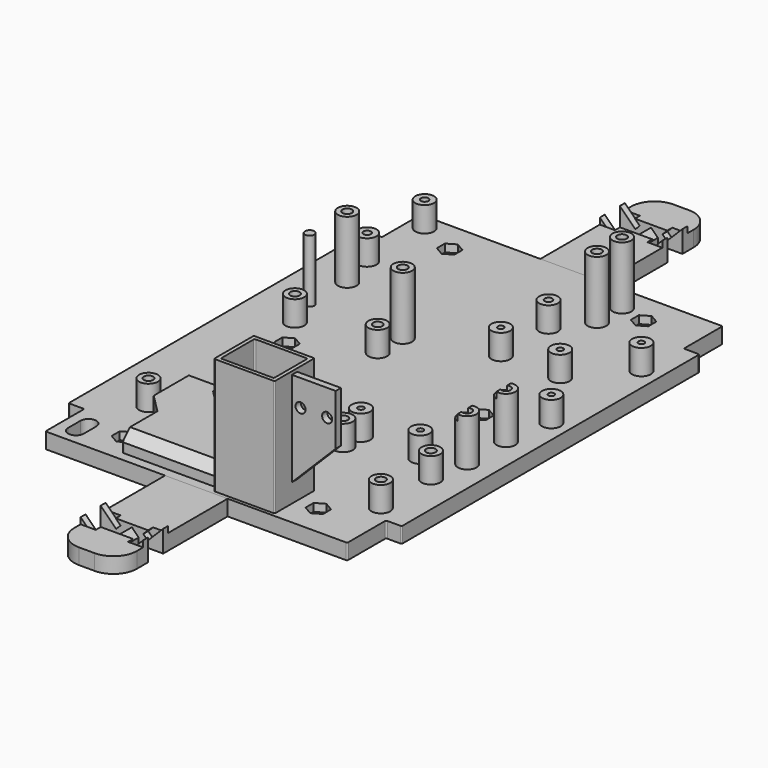
from build123d import *

# Parameters (mm, degrees)
PAD_DEPTH               = 5
SKETCH002_R             = 1.5
POCKET_DEPTH            = 2.5
SKETCH003_R             = 1.5
POCKET001_DEPTH         = 5
SKETCH004_W             = 20.5
SKETCH004_H             = 13.5
POCKET002_DEPTH         = 5
PAD001_DEPTH            = 13.5
SKETCH007_W             = 19.4
SKETCH007_H             = 15.9
SKETCH007_W_2           = 17
SKETCH007_H_2           = 13.5
PAD002_DEPTH            = 37.25
SKETCH008_W             = 2.1
SKETCH008_H             = 36.25
PAD003_DEPTH            = 14
POCKET003_DEPTH         = 2.1
SKETCH010_R             = 1.6
POCKET004_DEPTH         = 2.1
PAD193_DEPTH            = 6
POCKET198_DEPTH         = 10
CHAMFER_SIZE            = 3
POCKET218_DEPTH         = 5
FILLET_R                = 0.4
SKETCH450_R             = 3
SKETCH450_R_2           = 1.5
PAD231_DEPTH            = 8
SKETCH451_R             = 3
SKETCH451_R_2           = 1.5
PAD232_DEPTH            = 20
SKETCH452_R             = 3
SKETCH452_R_2           = 1.5
PAD233_DEPTH            = 8
SKETCH453_R             = 3
SKETCH453_R_2           = 1.5
PAD234_DEPTH            = 15
SKETCH454_W             = 2.25
SKETCH454_H             = 21.5
POCKET219_DEPTH         = 2
SKETCH455_R             = 3
SKETCH455_R_2           = 0.95
PAD235_DEPTH            = 8
SKETCH456_R             = 3
SKETCH456_R_2           = 0.95
PAD236_DEPTH            = 8
SKETCH457_R             = 3
SKETCH457_R_2           = 1.2
PAD237_DEPTH            = 8
SKETCH458_R             = 3
SKETCH458_R_2           = 1.5
PAD238_DEPTH            = 20
PAD238_FACE193_R        = 1.5
POCKET220_DEPTH         = 20
PAD197_DEPTH            = 5
POCKET202_DEPTH         = 3
POCKET202_DEPTH_BACK    = 3
SKETCH443_W             = 10
SKETCH443_H             = 2
POCKET203_DEPTH         = 5
POCKET203_DEPTH_BACK    = 2
SKETCH444_W             = 10
SKETCH444_H             = 2
POCKET204_DEPTH         = 5
POCKET204_DEPTH_BACK    = 2
POCKET204_FACE20_W      = 6
POCKET204_FACE20_H      = 5
POCKET205_DEPTH         = 5
POCKET205_FACE26_W      = 6
POCKET205_FACE26_H      = 5
POCKET206_DEPTH         = 5
PAD228_DEPTH            = 2
POCKET207_DEPTH         = 2
POCKET207_FACE66_W      = 6
POCKET207_FACE66_H      = 2.071068
POCKET208_DEPTH         = 5
POCKET208_FACE38_W      = 6
POCKET208_FACE38_H      = 2.071068
POCKET209_DEPTH         = 5
PAD229_DEPTH            = 5
POCKET214_DEPTH         = 3
POCKET214_DEPTH_BACK    = 3
SKETCH446_W             = 10
SKETCH446_H             = 2
POCKET215_DEPTH         = 5
POCKET215_DEPTH_BACK    = 2
SKETCH448_W             = 10
SKETCH448_H             = 2
POCKET216_DEPTH         = 5
POCKET216_DEPTH_BACK    = 2
POCKET216_FACE20_W      = 6
POCKET216_FACE20_H      = 5
POCKET217_DEPTH         = 5
POCKET217_FACE26_W      = 6
POCKET217_FACE26_H      = 5
POCKET210_DEPTH         = 5
PAD230_DEPTH            = 2
POCKET213_DEPTH         = 2
POCKET213_FACE66_W      = 6
POCKET213_FACE66_H      = 2.071068
POCKET211_DEPTH         = 5
POCKET211_FACE38_W      = 6
POCKET211_FACE38_H      = 2.071068
POCKET212_DEPTH         = 5
BODY150_PLACEMENT_ANGLE = 180


with BuildPart() as circuitry_mountingplate_base:
    # Sketch → Pad (new body)
    with BuildSketch(Plane.XY):
        Polygon((-53.25, -59.5), (-53.25, 59.5), (-48.25, 59.5), (-48.25, 75), (48.25, 75), (48.25, 59.5), (53.25, 59.5), (53.25, -59.5), (48.25, -59.5), (48.25, -75), (-48.25, -75), (-48.25, -59.5), align=None)
    extrude(amount=PAD_DEPTH)

    # Sketch002 (on Face14 of Pad) → Pocket (cut)
    with BuildSketch(Plane.XY.offset(5)):
        Polygon((-31, -61.766838), (-33.8, -63.383419), (-33.8, -66.616581), (-31, -68.233162), (-28.2, -66.616581), (-28.2, -63.383419), align=None)
        with Locations((-31, -65)):
            Circle(SKETCH002_R, mode=Mode.SUBTRACT)
        Polygon((31, -61.766838), (28.2, -63.383419), (28.2, -66.616581), (31, -68.233162), (33.8, -66.616581), (33.8, -63.383419), align=None)
        with Locations((31, -65)):
            Circle(SKETCH002_R, mode=Mode.SUBTRACT)
        Polygon((31, 3.233162), (28.2, 1.616581), (28.2, -1.616581), (31, -3.233162), (33.8, -1.616581), (33.8, 1.616581), align=None)
        with Locations((31, 0)):
            Circle(SKETCH002_R, mode=Mode.SUBTRACT)
        Polygon((-31, 3.233162), (-33.8, 1.616581), (-33.8, -1.616581), (-31, -3.233162), (-28.2, -1.616581), (-28.2, 1.616581), align=None)
        with Locations((-31, 0)):
            Circle(SKETCH002_R, mode=Mode.SUBTRACT)
        Polygon((-31, 68.233162), (-33.8, 66.616581), (-33.8, 63.383419), (-31, 61.766838), (-28.2, 63.383419), (-28.2, 66.616581), align=None)
        with Locations((-31, 65)):
            Circle(SKETCH002_R, mode=Mode.SUBTRACT)
        Polygon((31, 68.233162), (28.2, 66.616581), (28.2, 63.383419), (31, 61.766838), (33.8, 63.383419), (33.8, 66.616581), align=None)
        with Locations((31, 65)):
            Circle(SKETCH002_R, mode=Mode.SUBTRACT)
    extrude(amount=-POCKET_DEPTH, mode=Mode.SUBTRACT)

    # Sketch003 (on Face63 of Pocket) → Pocket001 (cut)
    with BuildSketch(Plane.XY.offset(5)):
        with Locations((-31, 65)):
            Circle(SKETCH003_R)
        with Locations((31, 65)):
            Circle(SKETCH003_R)
        with Locations((31, 0)):
            Circle(SKETCH003_R)
        with Locations((-31, 0)):
            Circle(SKETCH003_R)
        with Locations((-31, -65)):
            Circle(SKETCH003_R)
        with Locations((31, -65)):
            Circle(SKETCH003_R)
    extrude(amount=-POCKET001_DEPTH, mode=Mode.SUBTRACT)

    # Sketch004 (on Face5 of Pocket001) → Pocket002 (cut)
    with BuildSketch(Plane.XY.offset(5)):
        with Locations((16.25, -66)):
            Rectangle(SKETCH004_W, SKETCH004_H)
    extrude(amount=-POCKET002_DEPTH, mode=Mode.SUBTRACT)

    # Sketch006 (on Face20 of Pocket002) → Pad001 (join)
    with BuildSketch(Plane.XZ.offset(59.25)):
        Polygon((26.5, 0.75), (23, 4.25), (23, 5), (26.5, 5), align=None)
    extrude(amount=PAD001_DEPTH)

    # Sketch007 (on Face5 of Pad001) → Pad002 (join)
    with BuildSketch(Plane.XY.offset(5)):
        with Locations((14.5, -66)):
            Rectangle(SKETCH007_W, SKETCH007_H)
        with Locations((14.5, -66)):
            Rectangle(SKETCH007_W_2, SKETCH007_H_2, mode=Mode.SUBTRACT)
    extrude(amount=PAD002_DEPTH)

    # Sketch008 (on Face38 of Pad002) → Pad003 (join)
    with BuildSketch(Plane.YZ.offset(24.2)):
        with Locations((-66, 23.125)):
            Rectangle(SKETCH008_W, SKETCH008_H)
    extrude(amount=PAD003_DEPTH)

    # Sketch009 (on Face52 of Pad003) → Pocket003 (cut)
    with BuildSketch(Plane.XZ.offset(67.05)):
        Polygon((24.2, 5), (24.2, 11), (38.2, 25), (38.2, 5), align=None)
    extrude(amount=-POCKET003_DEPTH, mode=Mode.SUBTRACT)

    # Sketch010 (on Face83 of Pocket003) → Pocket004 (cut)
    with BuildSketch(Plane.XZ.offset(67.05)):
        with Locations((26.95, 32.85)):
            Circle(SKETCH010_R)
        with Locations((35.45, 32.85)):
            Circle(SKETCH010_R)
    extrude(amount=-POCKET004_DEPTH, mode=Mode.SUBTRACT)

    # Sketch410 (on Face5 of Pocket004) → Pad193 (join)
    with BuildSketch(Plane.XY.offset(5)):
        Polygon((4.8, -72), (-26, -72), (-26, -58.05), (-32, -52.05), (-32, -35), (-22, -35), (-22, -40.85), (-4.8, -58.05), (4.8, -58.05), align=None)
    extrude(amount=PAD193_DEPTH)

    # Sketch414 (on Face4 of Pad193) → Pocket198 (cut)
    with BuildSketch(Plane(origin=(0, 0, 0), x_dir=(1, 0, 0), z_dir=(0, 0, -1))):
        Polygon((6, 70), (-24, 70), (-24, 58.05), (-30.8, 51.25), (-30.8, 36.2), (-23.2, 36.2), (-23.2, 40.85), (-4.8, 59.25), (6, 59.25), align=None)
    extrude(amount=-POCKET198_DEPTH, mode=Mode.SUBTRACT)

    # Chamfer
    chamfer_edges = [circuitry_mountingplate_base.edges().sort_by_distance(p)[0] for p in [
        (-10.6, -72, 11),
        (0, -58.05, 11),
        (-27, -35, 11),
        (-27, -36.2, 10),
        (0.6, -59.25, 10),
        (-9, -70, 10),
    ]]
    chamfer(chamfer_edges, length=CHAMFER_SIZE)

    # Sketch449 → Pocket218 (cut)
    with BuildSketch(Plane.XY.offset(5)):
        with BuildLine():
            ThreePointArc((-45, -70), (-42.5, -72.5), (-40, -70))
            Line((-40, -70), (-40, -65))
            ThreePointArc((-40, -65), (-42.5, -62.5), (-45, -65))
            Line((-45, -70), (-45, -65))
        make_face()
    extrude(amount=-POCKET218_DEPTH, mode=Mode.SUBTRACT)

    # Fillet
    fillet_edges = [circuitry_mountingplate_base.edges().sort_by_distance(p)[0] for p in [
        (48.25, -75, 2.5),
        (48.25, -59.5, 2.5),
        (53.25, -59.5, 2.5),
        (53.25, 59.5, 2.5),
        (48.25, 59.5, 2.5),
        (48.25, 75, 2.5),
        (-48.25, 75, 2.5),
        (-48.25, 59.5, 2.5),
        (-53.25, 59.5, 2.5),
        (-53.25, -59.5, 2.5),
        (-48.25, -59.5, 2.5),
        (-48.25, -75, 2.5),
        (-30.8, -36.2, 3.5),
        (-24, -58.05, 5),
        (-30.8, -51.25, 5),
        (-24, -70, 3.5),
        (6, -70, 2.5),
        (6, -72.75, 2.5),
        (26.5, -72.75, 0.375),
        (26.5, -59.25, 0.375),
        (-4.8, -59.25, 3.5),
        (-23.2, -40.85, 5),
        (-23.2, -36.2, 3.5),
        (23, -59.25, 23.625),
        (23, -72.75, 23.625),
        (6, -72.75, 23.625),
        (6, -59.25, 8.5),
        (24.2, -73.95, 23.625),
        (24.2, -58.05, 23.625),
        (4.8, -58.05, 26.625),
        (4.8, -73.95, 23.625),
        (-26, -72, 6.5),
        (-26, -58.05, 8),
        (-32, -52.05, 8),
        (-32, -35, 6.5),
        (-22, -35, 6.5),
        (-22, -40.85, 8),
        (-4.8, -58.05, 6.5),
    ]]
    fillet(fillet_edges, radius=FILLET_R)

    # Sketch450 (on Face69 of Fillet) → Pad231 (join)
    with BuildSketch(Plane.XY.offset(5)):
        with Locations((-36.5, -48.5)):
            Circle(SKETCH450_R)
        with Locations((-36.5, -48.5)):
            Circle(SKETCH450_R_2, mode=Mode.SUBTRACT)
        with Locations((-10, -48.5)):
            Circle(SKETCH450_R)
        with Locations((-10, -48.5)):
            Circle(SKETCH450_R_2, mode=Mode.SUBTRACT)
        with Locations((-36.5, 10)):
            Circle(SKETCH450_R)
        with Locations((-36.5, 10)):
            Circle(SKETCH450_R_2, mode=Mode.SUBTRACT)
        with Locations((-10, 10)):
            Circle(SKETCH450_R)
        with Locations((-10, 10)):
            Circle(SKETCH450_R_2, mode=Mode.SUBTRACT)
    extrude(amount=PAD231_DEPTH)

    # Sketch451 (on Face69 of Pad231) → Pad232 (join)
    with BuildSketch(Plane.XY.offset(5)):
        with Locations((-39.75, 35)):
            Circle(SKETCH451_R)
        with Locations((-39.75, 35)):
            Circle(SKETCH451_R_2, mode=Mode.SUBTRACT)
        with Locations((-10, 35)):
            Circle(SKETCH451_R_2)
        with Locations((-39.75, 20)):
            Circle(SKETCH451_R_2)
        with Locations((-10, 20)):
            Circle(SKETCH451_R)
        with Locations((-10, 20)):
            Circle(SKETCH451_R_2, mode=Mode.SUBTRACT)
    extrude(amount=PAD232_DEPTH)

    # Sketch452 (on Face69 of Pad232) → Pad233 (join)
    with BuildSketch(Plane.XY.offset(5)):
        with Locations((15, -35)):
            Circle(SKETCH452_R)
        with Locations((15, -35)):
            Circle(SKETCH452_R_2, mode=Mode.SUBTRACT)
        with Locations((43, -35)):
            Circle(SKETCH452_R)
        with Locations((43, -35)):
            Circle(SKETCH452_R_2, mode=Mode.SUBTRACT)
        with Locations((43, -55)):
            Circle(SKETCH452_R)
        with Locations((43, -55)):
            Circle(SKETCH452_R_2, mode=Mode.SUBTRACT)
        with Locations((15, -55)):
            Circle(SKETCH452_R)
        with Locations((15, -55)):
            Circle(SKETCH452_R_2, mode=Mode.SUBTRACT)
    extrude(amount=PAD233_DEPTH)

    # Sketch453 (on Face69 of Pad233) → Pad234 (join)
    with BuildSketch(Plane.XY.offset(5)):
        with Locations((45, -7.5)):
            Circle(SKETCH453_R)
        with Locations((45, -7.5)):
            Circle(SKETCH453_R_2, mode=Mode.SUBTRACT)
        with Locations((45, -23)):
            Circle(SKETCH453_R)
        with Locations((45, -23)):
            Circle(SKETCH453_R_2, mode=Mode.SUBTRACT)
    extrude(amount=PAD234_DEPTH)

    # Sketch454 (on Face173 of Pad234) → Pocket219 (cut)
    with BuildSketch(Plane.XY.offset(20)):
        with Locations((43.125, -15.25)):
            Rectangle(SKETCH454_W, SKETCH454_H)
    extrude(amount=-POCKET219_DEPTH, mode=Mode.SUBTRACT)

    # Sketch455 (on Face69 of Pocket219) → Pad235 (join)
    with BuildSketch(Plane.XY.offset(5)):
        with Locations((15, -27.95)):
            Circle(SKETCH455_R)
        with Locations((15, -27.95)):
            Circle(SKETCH455_R_2, mode=Mode.SUBTRACT)
        with Locations((15, 27.95)):
            Circle(SKETCH455_R)
        with Locations((15, 27.95)):
            Circle(SKETCH455_R_2, mode=Mode.SUBTRACT)
        with Locations((33.98, 27.95)):
            Circle(SKETCH455_R)
        with Locations((33.98, 27.95)):
            Circle(SKETCH455_R_2, mode=Mode.SUBTRACT)
        with Locations((33.98, -27.95)):
            Circle(SKETCH455_R)
        with Locations((33.98, -27.95)):
            Circle(SKETCH455_R_2, mode=Mode.SUBTRACT)
    extrude(amount=PAD235_DEPTH)

    # Sketch456 (on Face69 of Pad235) → Pad236 (join)
    with BuildSketch(Plane.XY.offset(5)):
        with Locations((47.5, 7.5)):
            Circle(SKETCH456_R)
        with Locations((47.5, 7.5)):
            Circle(SKETCH456_R_2, mode=Mode.SUBTRACT)
        with Locations((47.5, 43.5)):
            Circle(SKETCH456_R)
        with Locations((47.5, 43.5)):
            Circle(SKETCH456_R_2, mode=Mode.SUBTRACT)
    extrude(amount=PAD236_DEPTH)

    # Sketch457 (on Face69 of Pad236) → Pad237 (join)
    with BuildSketch(Plane.XY.offset(5)):
        with Locations((-43, 70)):
            Circle(SKETCH457_R)
        with Locations((-43, 70)):
            Circle(SKETCH457_R_2, mode=Mode.SUBTRACT)
        with Locations((15, 70)):
            Circle(SKETCH457_R)
        with Locations((15, 70)):
            Circle(SKETCH457_R_2, mode=Mode.SUBTRACT)
        with Locations((-43, 47)):
            Circle(SKETCH457_R)
        with Locations((-43, 47)):
            Circle(SKETCH457_R_2, mode=Mode.SUBTRACT)
        with Locations((15, 47)):
            Circle(SKETCH457_R)
        with Locations((15, 47)):
            Circle(SKETCH457_R_2, mode=Mode.SUBTRACT)
    extrude(amount=PAD237_DEPTH)

    # Sketch458 (on Face69 of Pad237) → Pad238 (join)
    with BuildSketch(Plane.XY.offset(5)):
        with Locations((22.5, 67)):
            Circle(SKETCH458_R)
        with Locations((22.5, 67)):
            Circle(SKETCH458_R_2, mode=Mode.SUBTRACT)
        with Locations((22.5, 57)):
            Circle(SKETCH458_R)
        with Locations((22.5, 57)):
            Circle(SKETCH458_R_2, mode=Mode.SUBTRACT)
    extrude(amount=PAD238_DEPTH)

    # Pad238 Face193 → Pocket220 (cut)
    with BuildSketch(Plane(origin=(-10, 35, 25), x_dir=(0, 1, 0), z_dir=(0, 0, 1))):
        Circle(PAD238_FACE193_R)
    extrude(amount=-POCKET220_DEPTH, mode=Mode.SUBTRACT)


with BuildPart() as circuitry_mountingplate_front_extension:
    # Sketch417 → Pad197 (new body)
    with BuildSketch(Plane.XY):
        with BuildLine():
            Line((-10, -28.75), (10, -28.75))
            Line((10, -28.75), (10, 7.5))
            ThreePointArc((10, 7.5), (7.803301, 12.803301), (2.5, 15))
            Line((2.5, 15), (-2.5, 15))
            ThreePointArc((-2.5, 15), (-7.803301, 12.803301), (-10, 7.5))
            Line((-10, 7.5), (-10, -28.75))
        make_face()
    extrude(amount=PAD197_DEPTH)

    # Sketch442 → Pocket202 (cut, two sides)
    with BuildSketch(Plane.XZ) as pocket202_sk:
        Polygon((-10, 0), (-10, 5), (-8.585786, 6.414214), (-2.171573, 0), (-5, 0), align=None)
        Polygon((10, 0), (10, 5), (8.585786, 6.414214), (2.171573, 0), (5, 0), align=None)
    extrude(amount=-POCKET202_DEPTH, mode=Mode.SUBTRACT)
    extrude(pocket202_sk.sketch, amount=POCKET202_DEPTH_BACK, mode=Mode.SUBTRACT)

    # Sketch443 (on DatumPlane) → Pocket203 (cut, two sides)
    with BuildSketch(Plane(origin=(-7.171573, 3, 5), x_dir=(0, -1, 0), z_dir=(-0.707107, 0, 0.707107))) as pocket203_sk:
        with Locations((3, -1)):
            Rectangle(SKETCH443_W, SKETCH443_H)
    extrude(amount=-POCKET203_DEPTH, mode=Mode.SUBTRACT)
    extrude(pocket203_sk.sketch, amount=POCKET203_DEPTH_BACK, mode=Mode.SUBTRACT)

    # Sketch444 (on DatumPlane) → Pocket204 (cut, two sides)
    with BuildSketch(Plane(origin=(7.171573, 3, 5), x_dir=(0, 1, 0), z_dir=(0.707107, 0, 0.707107))) as pocket204_sk:
        with Locations((-3, -1)):
            Rectangle(SKETCH444_W, SKETCH444_H)
    extrude(amount=-POCKET204_DEPTH, mode=Mode.SUBTRACT)
    extrude(pocket204_sk.sketch, amount=POCKET204_DEPTH_BACK, mode=Mode.SUBTRACT)

    # Pocket204 Face20 → Pocket205 (cut)
    with BuildSketch(Plane(origin=(-5.403806, 0, 3.232233), x_dir=(0, 1, 0), z_dir=(-0.707107, 0, -0.707107))):
        Rectangle(POCKET204_FACE20_W, POCKET204_FACE20_H)
    extrude(amount=-POCKET205_DEPTH, mode=Mode.SUBTRACT)

    # Pocket205 Face26 → Pocket206 (cut)
    with BuildSketch(Plane(origin=(5.403806, 0, 3.232233), x_dir=(0, -1, 0), z_dir=(0.707107, 0, -0.707107))):
        Rectangle(POCKET205_FACE26_W, POCKET205_FACE26_H)
    extrude(amount=-POCKET206_DEPTH, mode=Mode.SUBTRACT)

    # Pocket206 Face4 → Pad228 (add)
    with BuildSketch(Plane(origin=(0, -8.372552, 0), x_dir=(0, -1, 0), z_dir=(0, 0, -1))):
        with BuildLine():
            Line((20.377448, 10), (-5.372552, 10))
            Line((-5.372552, 10), (-5.372552, 5))
            Line((-5.372552, 5), (-5.372552, 2.171573))
            Line((-5.372552, 2.171573), (-11.372552, 2.171573))
            Line((-11.372552, 2.171573), (-11.372552, 5))
            Line((-11.372552, 5), (-11.372552, 10))
            Line((-11.372552, 10), (-15.872552, 10))
            ThreePointArc((-15.872552, 10), (-21.175853, 7.803301), (-23.372552, 2.5))
            Line((-23.372552, 2.5), (-23.372552, -2.5))
            ThreePointArc((-23.372552, -2.5), (-21.175853, -7.803301), (-15.872552, -10))
            Line((-15.872552, -10), (-11.372552, -10))
            Line((-11.372552, -10), (-11.372552, -5))
            Line((-11.372552, -5), (-11.372552, -2.171573))
            Line((-11.372552, -2.171573), (-5.372552, -2.171573))
            Line((-5.372552, -2.171573), (-5.372552, -5))
            Line((-5.372552, -5), (-5.372552, -10))
            Line((-5.372552, -10), (20.377448, -10))
            Line((20.377448, -10), (20.377448, 10))
        make_face()
    extrude(amount=PAD228_DEPTH)

    # Pad228 Face5 → Pocket207 (cut)
    with BuildSketch(Plane(origin=(0, -8.9329, 5), x_dir=(0, 1, 0), z_dir=(0, 0, 1))):
        with BuildLine():
            Line((11.9329, 0.100505), (5.9329, 0.100505))
            Line((5.9329, 0.100505), (5.9329, 7.171573))
            Line((5.9329, 7.171573), (3.9329, 7.171573))
            Line((3.9329, 7.171573), (3.9329, 10))
            Line((3.9329, 10), (-19.8171, 10))
            Line((-19.8171, 10), (-19.8171, -10))
            Line((-19.8171, -10), (3.9329, -10))
            Line((3.9329, -10), (3.9329, -7.171573))
            Line((3.9329, -7.171573), (5.9329, -7.171573))
            Line((5.9329, -7.171573), (5.9329, -0.100505))
            Line((5.9329, -0.100505), (11.9329, -0.100505))
            Line((11.9329, -0.100505), (11.9329, -7.171573))
            Line((11.9329, -7.171573), (13.9329, -7.171573))
            Line((13.9329, -7.171573), (13.9329, -10))
            Line((13.9329, -10), (16.4329, -10))
            ThreePointArc((16.4329, -10), (21.736201, -7.803301), (23.9329, -2.5))
            Line((23.9329, -2.5), (23.9329, 2.5))
            ThreePointArc((23.9329, 2.5), (21.736201, 7.803301), (16.4329, 10))
            Line((16.4329, 10), (13.9329, 10))
            Line((13.9329, 10), (13.9329, 7.171573))
            Line((13.9329, 7.171573), (11.9329, 7.171573))
            Line((11.9329, 7.171573), (11.9329, 0.100505))
        make_face()
    extrude(amount=-POCKET207_DEPTH, mode=Mode.SUBTRACT)

    # Pocket207 Face66 → Pocket208 (cut)
    with BuildSketch(Plane(origin=(-2.903806, 0, 0.732233), x_dir=(0, 1, 0), z_dir=(-0.707107, 0, -0.707107))):
        Rectangle(POCKET207_FACE66_W, POCKET207_FACE66_H)
    extrude(amount=-POCKET208_DEPTH, mode=Mode.SUBTRACT)

    # Pocket208 Face38 → Pocket209 (cut)
    with BuildSketch(Plane(origin=(2.903806, 0, 0.732233), x_dir=(0, -1, 0), z_dir=(0.707107, 0, -0.707107))):
        Rectangle(POCKET208_FACE38_W, POCKET208_FACE38_H)
    extrude(amount=-POCKET209_DEPTH, mode=Mode.SUBTRACT)


with BuildPart() as circuitry_mountingplate_front_extension_1:
    # Body001 placement: moved
    add(circuitry_mountingplate_front_extension.part.moved(Location((0, 103.75, 2))))


with BuildPart() as circuitry_mountingplate_rear_extension:
    # Sketch445 → Pad229 (new body)
    with BuildSketch(Plane.XY):
        with BuildLine():
            Line((-10, -28.75), (10, -28.75))
            Line((10, -28.75), (10, 7.5))
            ThreePointArc((10, 7.5), (7.803301, 12.803301), (2.5, 15))
            Line((2.5, 15), (-2.5, 15))
            ThreePointArc((-2.5, 15), (-7.803301, 12.803301), (-10, 7.5))
            Line((-10, 7.5), (-10, -28.75))
        make_face()
    extrude(amount=PAD229_DEPTH)

    # Sketch447 → Pocket214 (cut, two sides)
    with BuildSketch(Plane.XZ) as pocket214_sk:
        Polygon((-10, 0), (-10, 5), (-8.585786, 6.414214), (-2.171573, 0), (-5, 0), align=None)
        Polygon((10, 0), (10, 5), (8.585786, 6.414214), (2.171573, 0), (5, 0), align=None)
    extrude(amount=-POCKET214_DEPTH, mode=Mode.SUBTRACT)
    extrude(pocket214_sk.sketch, amount=POCKET214_DEPTH_BACK, mode=Mode.SUBTRACT)

    # Sketch446 (on DatumPlane) → Pocket215 (cut, two sides)
    with BuildSketch(Plane(origin=(-7.171573, 3, 5), x_dir=(0, -1, 0), z_dir=(-0.707107, 0, 0.707107))) as pocket215_sk:
        with Locations((3, -1)):
            Rectangle(SKETCH446_W, SKETCH446_H)
    extrude(amount=-POCKET215_DEPTH, mode=Mode.SUBTRACT)
    extrude(pocket215_sk.sketch, amount=POCKET215_DEPTH_BACK, mode=Mode.SUBTRACT)

    # Sketch448 (on DatumPlane) → Pocket216 (cut, two sides)
    with BuildSketch(Plane(origin=(7.171573, 3, 5), x_dir=(0, 1, 0), z_dir=(0.707107, 0, 0.707107))) as pocket216_sk:
        with Locations((-3, -1)):
            Rectangle(SKETCH448_W, SKETCH448_H)
    extrude(amount=-POCKET216_DEPTH, mode=Mode.SUBTRACT)
    extrude(pocket216_sk.sketch, amount=POCKET216_DEPTH_BACK, mode=Mode.SUBTRACT)

    # Pocket216 Face20 → Pocket217 (cut)
    with BuildSketch(Plane(origin=(-5.403806, 0, 3.232233), x_dir=(0, 1, 0), z_dir=(-0.707107, 0, -0.707107))):
        Rectangle(POCKET216_FACE20_W, POCKET216_FACE20_H)
    extrude(amount=-POCKET217_DEPTH, mode=Mode.SUBTRACT)

    # Pocket217 Face26 → Pocket210 (cut)
    with BuildSketch(Plane(origin=(5.403806, 0, 3.232233), x_dir=(0, -1, 0), z_dir=(0.707107, 0, -0.707107))):
        Rectangle(POCKET217_FACE26_W, POCKET217_FACE26_H)
    extrude(amount=-POCKET210_DEPTH, mode=Mode.SUBTRACT)

    # Pocket210 Face4 → Pad230 (add)
    with BuildSketch(Plane(origin=(0, -8.372552, 0), x_dir=(0, -1, 0), z_dir=(0, 0, -1))):
        with BuildLine():
            Line((20.377448, 10), (-5.372552, 10))
            Line((-5.372552, 10), (-5.372552, 5))
            Line((-5.372552, 5), (-5.372552, 2.171573))
            Line((-5.372552, 2.171573), (-11.372552, 2.171573))
            Line((-11.372552, 2.171573), (-11.372552, 5))
            Line((-11.372552, 5), (-11.372552, 10))
            Line((-11.372552, 10), (-15.872552, 10))
            ThreePointArc((-15.872552, 10), (-21.175853, 7.803301), (-23.372552, 2.5))
            Line((-23.372552, 2.5), (-23.372552, -2.5))
            ThreePointArc((-23.372552, -2.5), (-21.175853, -7.803301), (-15.872552, -10))
            Line((-15.872552, -10), (-11.372552, -10))
            Line((-11.372552, -10), (-11.372552, -5))
            Line((-11.372552, -5), (-11.372552, -2.171573))
            Line((-11.372552, -2.171573), (-5.372552, -2.171573))
            Line((-5.372552, -2.171573), (-5.372552, -5))
            Line((-5.372552, -5), (-5.372552, -10))
            Line((-5.372552, -10), (20.377448, -10))
            Line((20.377448, -10), (20.377448, 10))
        make_face()
    extrude(amount=PAD230_DEPTH)

    # Pad230 Face5 → Pocket213 (cut)
    with BuildSketch(Plane(origin=(0, -8.9329, 5), x_dir=(0, 1, 0), z_dir=(0, 0, 1))):
        with BuildLine():
            Line((11.9329, 0.100505), (5.9329, 0.100505))
            Line((5.9329, 0.100505), (5.9329, 7.171573))
            Line((5.9329, 7.171573), (3.9329, 7.171573))
            Line((3.9329, 7.171573), (3.9329, 10))
            Line((3.9329, 10), (-19.8171, 10))
            Line((-19.8171, 10), (-19.8171, -10))
            Line((-19.8171, -10), (3.9329, -10))
            Line((3.9329, -10), (3.9329, -7.171573))
            Line((3.9329, -7.171573), (5.9329, -7.171573))
            Line((5.9329, -7.171573), (5.9329, -0.100505))
            Line((5.9329, -0.100505), (11.9329, -0.100505))
            Line((11.9329, -0.100505), (11.9329, -7.171573))
            Line((11.9329, -7.171573), (13.9329, -7.171573))
            Line((13.9329, -7.171573), (13.9329, -10))
            Line((13.9329, -10), (16.4329, -10))
            ThreePointArc((16.4329, -10), (21.736201, -7.803301), (23.9329, -2.5))
            Line((23.9329, -2.5), (23.9329, 2.5))
            ThreePointArc((23.9329, 2.5), (21.736201, 7.803301), (16.4329, 10))
            Line((16.4329, 10), (13.9329, 10))
            Line((13.9329, 10), (13.9329, 7.171573))
            Line((13.9329, 7.171573), (11.9329, 7.171573))
            Line((11.9329, 7.171573), (11.9329, 0.100505))
        make_face()
    extrude(amount=-POCKET213_DEPTH, mode=Mode.SUBTRACT)

    # Pocket213 Face66 → Pocket211 (cut)
    with BuildSketch(Plane(origin=(-2.903806, 0, 0.732233), x_dir=(0, 1, 0), z_dir=(-0.707107, 0, -0.707107))):
        Rectangle(POCKET213_FACE66_W, POCKET213_FACE66_H)
    extrude(amount=-POCKET211_DEPTH, mode=Mode.SUBTRACT)

    # Pocket211 Face38 → Pocket212 (cut)
    with BuildSketch(Plane(origin=(2.903806, 0, 0.732233), x_dir=(0, -1, 0), z_dir=(0.707107, 0, -0.707107))):
        Rectangle(POCKET211_FACE38_W, POCKET211_FACE38_H)
    extrude(amount=-POCKET212_DEPTH, mode=Mode.SUBTRACT)


with BuildPart() as circuitry_mountingplate_rear_extension_1:
    # Body150 placement: moved
    add(circuitry_mountingplate_rear_extension.part.moved(Location((0, -103.75, 2))).rotate(Axis((0, -103.75, 2), (0, 0, 1)), BODY150_PLACEMENT_ANGLE))


solid = Compound([circuitry_mountingplate_base.part, circuitry_mountingplate_front_extension_1.part, circuitry_mountingplate_rear_extension_1.part])
